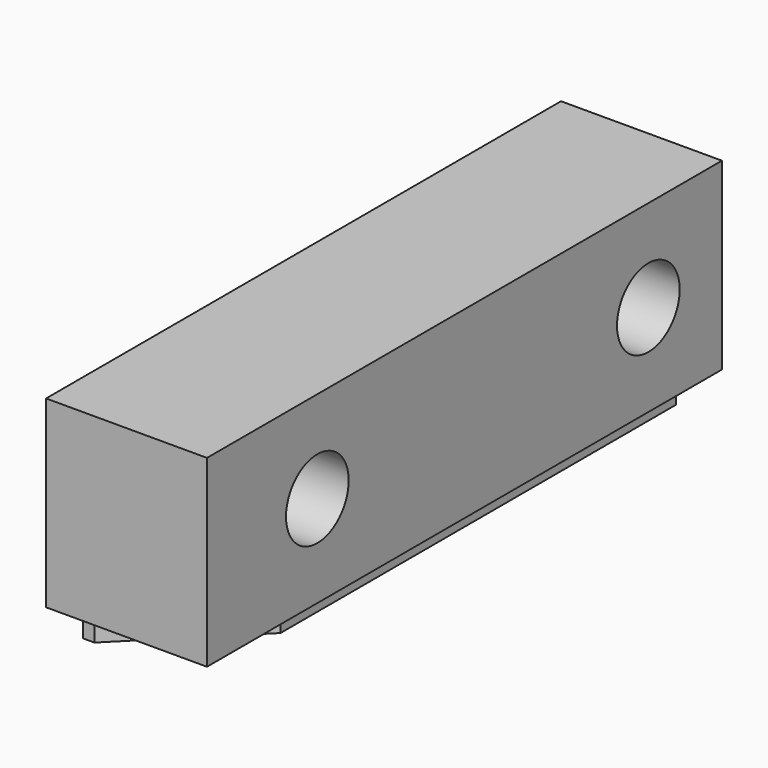
from build123d import *

# Parameters (mm, degrees)
F0_W     = 5.556377
F0_H     = 22.225
F1_DEPTH = 6.35
F2_W     = 3.968877
F2_H     = 20.6375
F3_DEPTH = 1.5875
F4_R     = 1.35255
F5_DEPTH = 6.35
F6_SIZE  = 3.57124


with BuildPart() as f1:
    # F0 (on Top) → F1 (new body)
    with BuildSketch(Plane.XY):
        with Locations((2.7781885, -11.1125)):
            Rectangle(F0_W, F0_H)
    extrude(amount=F1_DEPTH)

    # F2 (on face) → F3 (join)
    with BuildSketch(Plane(origin=(0, 0, 0), x_dir=(1, 0, 0), z_dir=(0, 0, -1))):
        with Locations((1.9844385, 10.31875)):
            Rectangle(F2_W, F2_H)
    extrude(amount=F3_DEPTH)

    # F4 (on face) → F5 (cut)
    with BuildSketch(Plane(origin=(0, 0, 0), x_dir=(0, -1, 0), z_dir=(-1, 0, 0))):
        with Locations((17.4625, 3.175)):
            Circle(F4_R)
        with Locations((3.175, 3.175)):
            Circle(F4_R)
    extrude(amount=-F5_DEPTH, mode=Mode.SUBTRACT)

    # F6
    f6_edges = [f1.edges().sort_by_distance(p)[0] for p in [
        (3.968877, -20.6375, -0.79375),
    ]]
    chamfer(f6_edges, length=F6_SIZE)


solid = f1.part
